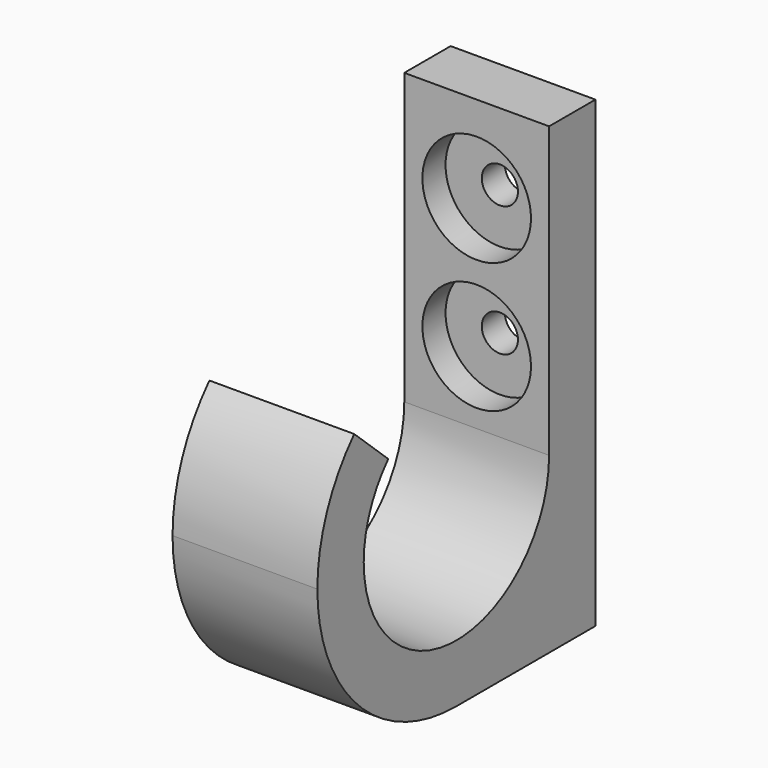
from build123d import *

# Parameters (mm, degrees)
F1_DEPTH = 12.7
F2_R     = 3.175
F3_DEPTH = 10.161
F2_R_2   = 9.525
F4_DEPTH = 5.08


with BuildPart() as f1:
    # F0 (on Right) → F1 (new body, symmetric)
    with BuildSketch(Plane.YZ):
        with BuildLine():
            Line((0, 50.8), (0, 0))
            ThreePointArc((0, 0), (-20.32, -20.32), (-40.64, 0))
            ThreePointArc((-40.64, 0), (-39.246403, 7.395517), (-35.256765, 13.776627))
            Line((-35.256765, 13.776627), (-42.725147, 20.664941))
            ThreePointArc((-42.725147, 20.664941), (-48.709604, 11.093275), (-50.8, 0))
            ThreePointArc((-50.8, 0), (-41.872615, -21.552615), (-20.32, -30.48))
            ThreePointArc((-20.32, -30.48), (1.232615, -21.552615), (10.16, 0))
            Line((10.16, 0), (10.16, 50.8))
            Line((10.16, 50.8), (0, 50.8))
        make_face()
        with BuildLine():
            Line((10.16, -30.48), (10.16, 0))
            ThreePointArc((10.16, 0), (1.232615, -21.552615), (-20.32, -30.48))
            Line((-20.32, -30.48), (10.16, -30.48))
        make_face()
    extrude(amount=F1_DEPTH, both=True)

    # F2 (on face) → F3 (cut, through all)
    with BuildSketch(Plane.XZ):
        with Locations((0, 35.56)):
            Circle(F2_R)
        with Locations((0, 12.7)):
            Circle(F2_R)
    extrude(amount=-F3_DEPTH, mode=Mode.SUBTRACT)

    # F2 (on face) → F4 (cut)
    with BuildSketch(Plane.XZ):
        with Locations((0, 35.56)):
            Circle(F2_R_2)
        with Locations((0, 35.56)):
            Circle(F2_R, mode=Mode.SUBTRACT)
        with Locations((0, 12.7)):
            Circle(F2_R_2)
        with Locations((0, 12.7)):
            Circle(F2_R, mode=Mode.SUBTRACT)
    extrude(amount=-F4_DEPTH, mode=Mode.SUBTRACT)


solid = f1.part
